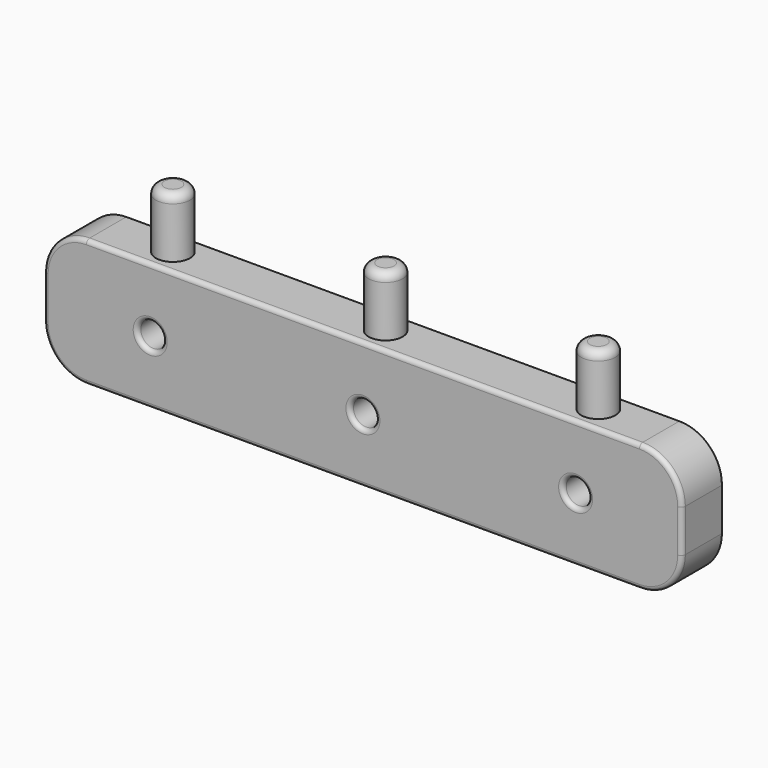
from build123d import *

# Parameters (mm, degrees)
F0_R     = 1.5
F1_DEPTH = 6
F2_R     = 0.5
F3_R     = 0.2
F4_R     = 2
F5_DEPTH = 7
F6_R     = 1


with BuildPart() as f1:
    # F0 (on Front) → F1 (new body)
    with BuildSketch(Plane.XZ):
        with BuildLine():
            ThreePointArc((37.5, 2.5), (36.035534, 6.035534), (32.5, 7.5))
            Line((32.5, 7.5), (-32.5, 7.5))
            ThreePointArc((-32.5, 7.5), (-36.035534, 6.035534), (-37.5, 2.5))
            Line((-37.5, 2.5), (-37.5, -2.5))
            ThreePointArc((-37.5, -2.5), (-36.035534, -6.035534), (-32.5, -7.5))
            Line((-32.5, -7.5), (32.5, -7.5))
            ThreePointArc((32.5, -7.5), (36.035534, -6.035534), (37.5, -2.5))
            Line((37.5, -2.5), (37.5, 2.5))
        make_face()
        with Locations((-25, 0)):
            Circle(F0_R, mode=Mode.SUBTRACT)
        Circle(F0_R, mode=Mode.SUBTRACT)
        with Locations((25, 0)):
            Circle(F0_R, mode=Mode.SUBTRACT)
    extrude(amount=F1_DEPTH)

    # F2
    f2_edges = [f1.edges().sort_by_distance(p)[0] for p in [
        (36.035534, -6, -6.035534),
        (37.5, -6, 0),
        (36.035534, -6, 6.035534),
        (0, -6, 7.5),
        (-36.035534, -6, 6.035534),
        (-37.5, -6, 0),
        (-36.035534, -6, -6.035534),
        (0, -6, -7.5),
        (-26.5, -6, 0),
        (-1.5, -6, 0),
        (23.5, -6, 0),
    ]]
    fillet(f2_edges, radius=F2_R)

    # F3
    f3_edges = [f1.edges().sort_by_distance(p)[0] for p in [
        (36.035534, 0, -6.035534),
        (37.5, 0, 0),
        (36.035534, 0, 6.035534),
        (0, 0, 7.5),
        (-36.035534, 0, 6.035534),
        (-37.5, 0, 0),
        (-36.035534, 0, -6.035534),
        (0, 0, -7.5),
        (-26.5, 0, 0),
        (-1.5, 0, 0),
        (23.5, 0, 0),
    ]]
    fillet(f3_edges, radius=F3_R)

    # F4 (on face) → F5 (join)
    with BuildSketch(Plane.XY.offset(7.5)):
        with Locations((-24.816582, -2.895621)):
            Circle(F4_R)
        with Locations((0.183418, -2.895621)):
            Circle(F4_R)
        with Locations((25.183418, -2.895621)):
            Circle(F4_R)
    extrude(amount=F5_DEPTH)

    # F6
    f6_edges = [f1.edges().sort_by_distance(p)[0] for p in [
        (-26.816582, -2.895621, 14.5),
        (-1.816582, -2.895621, 14.5),
        (23.183418, -2.895621, 14.5),
    ]]
    fillet(f6_edges, radius=F6_R)


solid = f1.part
